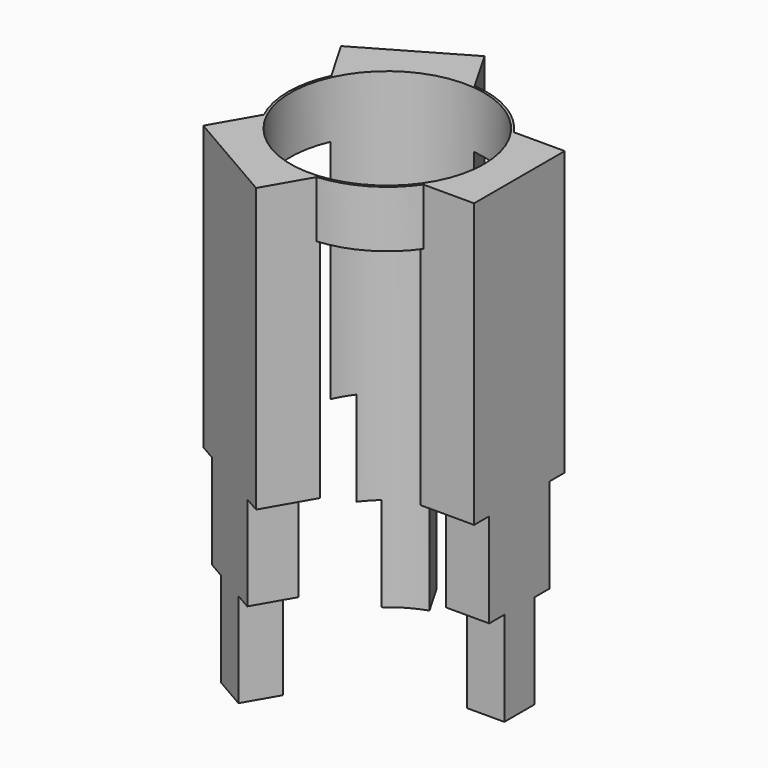
from build123d import *

# Parameters (mm, degrees)
PAD002_DEPTH    = 7
PAD003_DEPTH    = 7
PAD004_DEPTH    = 7
SKETCH011_R     = 5.25
PAD005_DEPTH    = 3
SKETCH012_R     = 5.125
POCKET002_DEPTH = 25.001


with BuildPart() as part:
    # Sketch008 (on DatumPlane) → Pad002 (new body)
    with BuildSketch(Plane(origin=(0, 0, 0), x_dir=(-0.8660254038, -0.5, 0), z_dir=(-0.5, 0.8660254038, 0))):
        Polygon((-3, 0), (3, 0), (3, -15), (2, -15), (2, -20), (1, -20), (1, -25), (-1, -25), (-1, -20), (-2, -20), (-2, -15), (-3, -15), align=None)
    extrude(amount=PAD002_DEPTH)

    # Sketch009 (on DatumPlane) → Pad003 (join)
    with BuildSketch(Plane(origin=(0, 0, 0), x_dir=(0.8660254038, -0.5, 0), z_dir=(-0.5, -0.8660254038, 0))):
        Polygon((-3, 0), (3, 0), (3, -15), (2, -15), (2, -20), (1, -20), (1, -25), (-1, -25), (-1, -20), (-2, -20), (-2, -15), (-3, -15), align=None)
    extrude(amount=PAD003_DEPTH)

    # Sketch010 → Pad004 (join)
    with BuildSketch(Plane.YZ):
        Polygon((-3, 0), (3, 0), (3, -15), (2, -15), (2, -20), (1, -20), (1, -25), (-1, -25), (-1, -20), (-2, -20), (-2, -15), (-3, -15), align=None)
    extrude(amount=PAD004_DEPTH)

    # Sketch011 → Pad005 (join)
    with BuildSketch(Plane.XY):
        Circle(SKETCH011_R)
    extrude(amount=-PAD005_DEPTH)

    # Sketch012 → Pocket002 (cut, through all)
    with BuildSketch(Plane.XY):
        Circle(SKETCH012_R)
    extrude(amount=-POCKET002_DEPTH, mode=Mode.SUBTRACT)


solid = part.part
